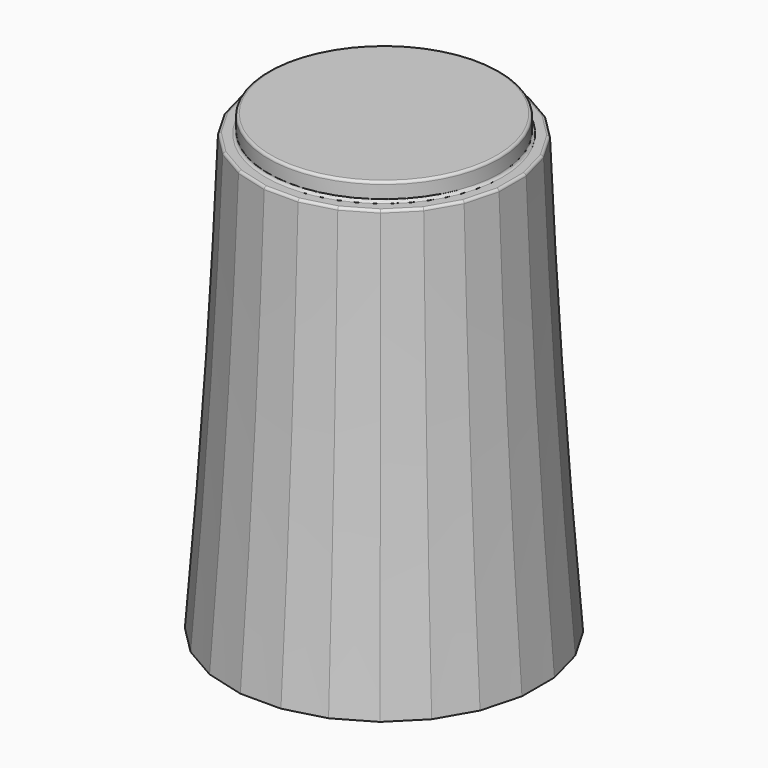
from build123d import *

# Parameters (mm, degrees)
SKETCH361_R     = 4.5
PAD064_DEPTH    = 0.7
SKETCH360_R     = 5
POCKET061_DEPTH = 1
SKETCH358_R     = 4.65
POCKET055_DEPTH = 1
POCKET060_DEPTH = 8
CHAMFER049_SIZE = 1.4
CHAMFER048_SIZE = 0.3
FILLET021_R     = 0.1


with BuildPart() as part:
    # Sketch362 → AdditiveLoft028 section 0
    with BuildSketch(Plane.XY):
        Polygon((-0.789915, 6), (-2.315914, 5.59111), (-3.684086, 4.801195), (-4.801195, 3.684086), (-5.59111, 2.315914), (-6, 0.789915), (-6, -0.789915), (-5.59111, -2.315914), (-4.801195, -3.684086), (-3.684086, -4.801195), (-2.315914, -5.59111), (-0.789915, -6), (0.789915, -6), (2.315914, -5.59111), (3.684086, -4.801195), (4.801195, -3.684086), (5.59111, -2.315914), (6, -0.789915), (6, 0.789915), (5.59111, 2.315914), (4.801195, 3.684086), (3.684086, 4.801195), (2.315914, 5.59111), (0.789915, 6), align=None)
    # Sketch357 → AdditiveLoft028 section 1
    with BuildSketch(Plane.XY.offset(7)):
        Polygon((-0.724089, 5.5), (-2.122921, 5.125184), (-3.377079, 4.401095), (-4.401095, 3.377079), (-5.125184, 2.122921), (-5.5, 0.724089), (-5.5, -0.724089), (-5.125184, -2.122921), (-4.401095, -3.377079), (-3.377079, -4.401095), (-2.122921, -5.125184), (-0.724089, -5.5), (0.724089, -5.5), (2.122921, -5.125184), (3.377079, -4.401095), (4.401095, -3.377079), (5.125184, -2.122921), (5.5, -0.724089), (5.5, 0.724089), (5.125184, 2.122921), (4.401095, 3.377079), (3.377079, 4.401095), (2.122921, 5.125184), (0.724089, 5.5), align=None)
    # Sketch364 → AdditiveLoft028 section 2
    with BuildSketch(Plane.XY.offset(17)):
        Polygon((-4.659258, 1.929928), (-5, 0.658262), (-5, -0.658262), (-4.659258, -1.929928), (-4.000996, -3.070072), (-3.070072, -4.000996), (-1.929928, -4.659258), (-0.658262, -5), (0.658262, -5), (1.929928, -4.659258), (3.070072, -4.000996), (4.000996, -3.070072), (4.659258, -1.929928), (5, -0.658262), (5, 0.658262), (4.659258, 1.929928), (4.000996, 3.070072), (3.070072, 4.000996), (1.929928, 4.659258), (0.658262, 5), (-0.658262, 5), (-1.929928, 4.659258), (-3.070072, 4.000996), (-4.000996, 3.070072), align=None)
    loft()

    # Sketch361 (on Face3 of AdditiveLoft028) → Pad064 (new body)
    with BuildSketch(Plane.XY.offset(17)):
        Circle(SKETCH361_R)
    extrude(amount=PAD064_DEPTH)

    # Sketch360 (on Face1 of Pad064) → Pocket061 (cut)
    with BuildSketch(Plane(origin=(0, 0, 0), x_dir=(1, 0, 0), z_dir=(0, 0, -1))):
        Circle(SKETCH360_R)
    extrude(amount=-POCKET061_DEPTH, mode=Mode.SUBTRACT)

    # Sketch358 (on Face28 of Pocket061) → Pocket055 (cut)
    with BuildSketch(Plane(origin=(0, 0, 1), x_dir=(1, 0, 0), z_dir=(0, 0, -1))):
        Circle(SKETCH358_R)
    extrude(amount=-POCKET055_DEPTH, mode=Mode.SUBTRACT)

    # Sketch359 (on Face32 of Pocket055) → Pocket060 (cut)
    with BuildSketch(Plane(origin=(0, 0, 2), x_dir=(1, 0, 0), z_dir=(0, 0, -1))):
        with BuildLine():
            ThreePointArc((-1.741757, 2.442598), (0, -3), (1.741757, 2.442598))
            Line((-1.741757, 2.442598), (1.741757, 2.442598))
        make_face()
    extrude(amount=-POCKET060_DEPTH, mode=Mode.SUBTRACT)

    # Chamfer049
    chamfer049_edges = [part.edges().sort_by_distance(p)[0] for p in [
        (0, 3, 2),
        (0, -2.442598, 2),
    ]]
    chamfer(chamfer049_edges, length=CHAMFER049_SIZE)

    # Chamfer048
    chamfer048_edges = [part.edges().sort_by_distance(p)[0] for p in [
        (-4.65, 0, 1),
    ]]
    chamfer(chamfer048_edges, length=CHAMFER048_SIZE)

    # Fillet021
    fillet021_edges = [part.edges().sort_by_distance(p)[0] for p in [
        (-4.5, 0, 17.7),
        (-4.829629, 1.294095, 17),
        (-4.330127, 2.5, 17),
        (-5, 0, 17),
        (-3.535534, 3.535534, 17),
        (-4.829629, -1.294095, 17),
        (-2.5, 4.330127, 17),
        (-4.330127, -2.5, 17),
        (-1.294095, 4.829629, 17),
        (-3.535534, -3.535534, 17),
        (0, 5, 17),
        (-2.5, -4.330127, 17),
        (1.294095, 4.829629, 17),
        (-1.294095, -4.829629, 17),
        (2.5, 4.330127, 17),
        (0, -5, 17),
        (3.535534, 3.535534, 17),
        (1.294095, -4.829629, 17),
        (4.330127, 2.5, 17),
        (2.5, -4.330127, 17),
        (4.829629, 1.294095, 17),
        (3.535534, -3.535534, 17),
        (5, 0, 17),
        (4.330127, -2.5, 17),
        (4.829629, -1.294095, 17),
        (-4.5, 0, 17),
    ]]
    fillet(fillet021_edges, radius=FILLET021_R)


solid = part.part
